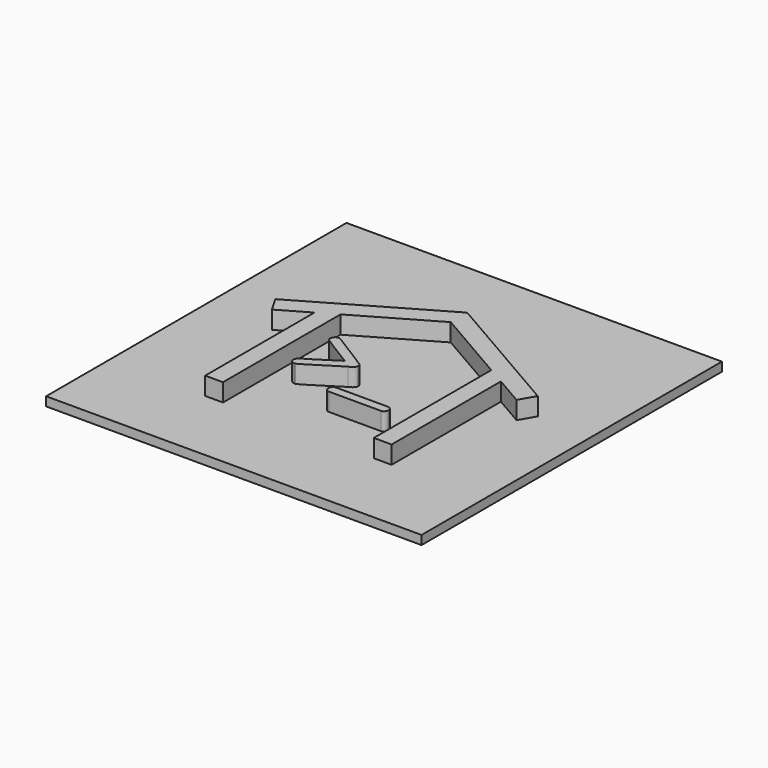
from build123d import *

# Parameters (mm, degrees)
EXTRUDE_DEPTH    = 3
EXTRUDE001_DEPTH = 3
EXTRUDE003_DEPTH = 3
BOX_W            = 42
BOX_H            = 42
BOX_DEPTH        = 1


with BuildPart() as extrude_body:
    with BuildSketch(Plane(origin=(15.24, -12.479585, 0), x_dir=(0, 1, 0), z_dir=(0, 0, 1))):
        with BuildLine():
            add(Edge.make_bspline(
                [(11.791526, 0.035526), (3.337864, 14.675555)],
                knots=[0, 0, 327.152698, 327.152698], degree=1))
            add(Edge.make_bspline(
                [(3.337864, 14.675555), (1.611605, 13.679207)],
                knots=[0, 0, 38.571286, 38.571286], degree=1))
            add(Edge.make_bspline(
                [(1.611605, 13.679207), (3.489659, 10.426943)],
                knots=[0, 0, 72.677349, 72.677349], degree=1))
            add(Edge.make_bspline(
                [(3.489659, 10.426943), (-11.791526, 10.426943)],
                knots=[0, 0, 295.71875, 295.71875], degree=1))
            add(Edge.make_bspline(
                [(-11.791526, 10.426943), (-11.791526, 8.434246)],
                knots=[0, 0, 38.5625, 38.5625], degree=1))
            add(Edge.make_bspline(
                [(-11.791526, 8.434246), (4.639421, 8.434246)],
                knots=[0, 0, 317.96875, 317.96875], degree=1))
            add(Edge.make_bspline(
                [(4.639421, 8.434246), (9.509764, 0)],
                knots=[0, 0, 188.476584, 188.476584], degree=1))
            add(Edge.make_bspline(
                [(9.509764, 0), (4.639421, -8.434246)],
                knots=[0, 0, 188.476584, 188.476584], degree=1))
            add(Edge.make_bspline(
                [(4.639421, -8.434246), (-11.791526, -8.434246)],
                knots=[0, 0, 317.96875, 317.96875], degree=1))
            add(Edge.make_bspline(
                [(-11.791526, -8.434246), (-11.791526, -10.426943)],
                knots=[0, 0, 38.5625, 38.5625], degree=1))
            add(Edge.make_bspline(
                [(-11.791526, -10.426943), (3.489659, -10.426943)],
                knots=[0, 0, 295.71875, 295.71875], degree=1))
            add(Edge.make_bspline(
                [(3.489659, -10.426943), (1.611605, -13.679207)],
                knots=[0, 0, 72.677349, 72.677349], degree=1))
            add(Edge.make_bspline(
                [(1.611605, -13.679207), (3.337864, -14.675555)],
                knots=[0, 0, 38.571286, 38.571286], degree=1))
            add(Edge.make_bspline(
                [(3.337864, -14.675555), (11.791526, -0.035526)],
                knots=[0, 0, 327.152698, 327.152698], degree=1))
            add(Edge.make_bspline(
                [(11.791526, -0.035526), (11.730163, 0)],
                knots=[0, 0, 1.372156, 1.372156], degree=1))
            add(Edge.make_bspline(
                [(11.730163, 0), (11.791526, 0.035526)],
                knots=[0, 0, 1.372156, 1.372156], degree=1))
        make_face()
    extrude(amount=EXTRUDE_DEPTH)


with BuildPart() as extrude001:
    # path2994 → Extrude001 (new body)
    with BuildSketch(Plane(origin=(11.51903, -14.488449, 0), x_dir=(0, -1, 0), z_dir=(0, 0, -1))):
        with BuildLine():
            add(Edge.make_bspline(
                [(-3.09126, 2.06083), (-3.091253, 1.934747), (-2.795606, 1.421714), (-2.204317, 0.521729)],
                knots=[0, 0, 0, 0, 1, 1, 1, 1], degree=3))
            add(Edge.make_bspline(
                [(-2.204317, 0.521729), (-1.056502, -1.339101), (-0.421729, -2.339081), (-0.299997, -2.478215)],
                knots=[0, 0, 0, 0, 1, 1, 1, 1], degree=3))
            add(Edge.make_bspline(
                [(-0.299997, -2.478215), (-0.208689, -2.547772), (-0.113038, -2.582555), (-0.013044, -2.582561)],
                knots=[0, 0, 0, 0, 1, 1, 1, 1], degree=3))
            add(Edge.make_bspline(
                [(-0.013044, -2.582561), (0.039129, -2.582561)],
                knots=[0, 0, 0.78125, 0.78125], degree=1))
            add(Edge.make_bspline(
                [(0.039129, -2.582561), (0.282608, -2.582555), (0.491301, -2.373863), (0.665207, -1.956485)],
                knots=[0, 0, 0, 0, 1, 1, 1, 1], degree=3))
            add(Edge.make_bspline(
                [(0.665207, -1.956485), (2.282577, 0.578253), (3.09126, 1.891269), (3.091259, 1.982571)],
                knots=[0, 0, 0, 0, 1, 1, 1, 1], degree=3))
            add(Edge.make_bspline(
                [(3.091259, 1.982571), (3.091259, 2.086917)],
                knots=[0, 0, 1.5625, 1.5625], degree=1))
            add(Edge.make_bspline(
                [(3.091259, 2.086917), (3.030392, 2.417346), (2.865177, 2.582561), (2.595614, 2.582559)],
                knots=[0, 0, 0, 0, 1, 1, 1, 1], degree=3))
            add(Edge.make_bspline(
                [(2.595614, 2.582559), (2.569528, 2.582559)],
                knots=[0, 0, 0.39063, 0.39063], degree=1))
            add(Edge.make_bspline(
                [(2.569528, 2.582559), (2.317359, 2.582561), (2.056494, 2.304305), (1.78693, 1.747792)],
                knots=[0, 0, 0, 0, 1, 1, 1, 1], degree=3))
            add(Edge.make_bspline(
                [(1.78693, 1.747792), (-0.013044, -1.069546)],
                knots=[0, 0, 50.062519, 50.062519], degree=1))
            add(Edge.make_bspline(
                [(-0.013044, -1.069546), (-1.386932, 1.173893), (-2.126051, 2.347783), (-2.230404, 2.452127)],
                knots=[0, 0, 0, 0, 1, 1, 1, 1], degree=3))
            add(Edge.make_bspline(
                [(-2.230404, 2.452127), (-2.352135, 2.539083), (-2.465176, 2.582561), (-2.569529, 2.582559)],
                knots=[0, 0, 0, 0, 1, 1, 1, 1], degree=3))
            add(Edge.make_bspline(
                [(-2.569529, 2.582559), (-2.917343, 2.512996), (-3.091253, 2.339087), (-3.09126, 2.06083)],
                knots=[0, 0, 0, 0, 1, 1, 1, 1], degree=3))
        make_face()
    extrude(amount=-EXTRUDE001_DEPTH)


with BuildPart() as extrude003:
    # path2996 → Extrude003 (new body)
    with BuildSketch(Plane(origin=(18.043908, -19.386204, 0), x_dir=(0, -1, 0), z_dir=(0, 0, -1))):
        with BuildLine():
            add(Edge.make_bspline(
                [(-0.495645, 2.885815), (-0.495645, -2.885815)],
                knots=[0, 0, 86.42578, 86.42578], degree=1))
            add(Edge.make_bspline(
                [(-0.495645, -2.885815), (-0.439124, -3.207542), (-0.286953, -3.368408), (-0.039129, -3.368414)],
                knots=[0, 0, 0, 0, 1, 1, 1, 1], degree=3))
            add(Edge.make_bspline(
                [(-0.039129, -3.368414), (0.03913, -3.368414)],
                knots=[0, 0, 1.17187, 1.17187], degree=1))
            add(Edge.make_bspline(
                [(0.03913, -3.368414), (0.343473, -3.307539), (0.495644, -3.155369), (0.495645, -2.911901)],
                knots=[0, 0, 0, 0, 1, 1, 1, 1], degree=3))
            add(Edge.make_bspline(
                [(0.495645, -2.911901), (0.495645, 2.885815)],
                knots=[0, 0, 86.8164, 86.8164], degree=1))
            add(Edge.make_bspline(
                [(0.495645, 2.885815), (0.495644, 3.159723), (0.317386, 3.32059), (-0.039129, 3.368414)],
                knots=[0, 0, 0, 0, 1, 1, 1, 1], degree=3))
            add(Edge.make_bspline(
                [(-0.039129, 3.368414), (-0.343473, 3.28146), (-0.495645, 3.120594), (-0.495645, 2.885815)],
                knots=[0, 0, 0, 0, 1, 1, 1, 1], degree=3))
        make_face()
    extrude(amount=-EXTRUDE003_DEPTH)


with BuildPart() as cube:
    # Box → Box (new body)
    with BuildSketch(Plane(origin=(-6, -33, 0), x_dir=(1, 0, 0), z_dir=(0, 0, 1))):
        with Locations((21, 21)):
            Rectangle(BOX_W, BOX_H)
    extrude(amount=BOX_DEPTH)


solid = Compound([extrude_body.part, extrude001.part, extrude003.part, cube.part])
